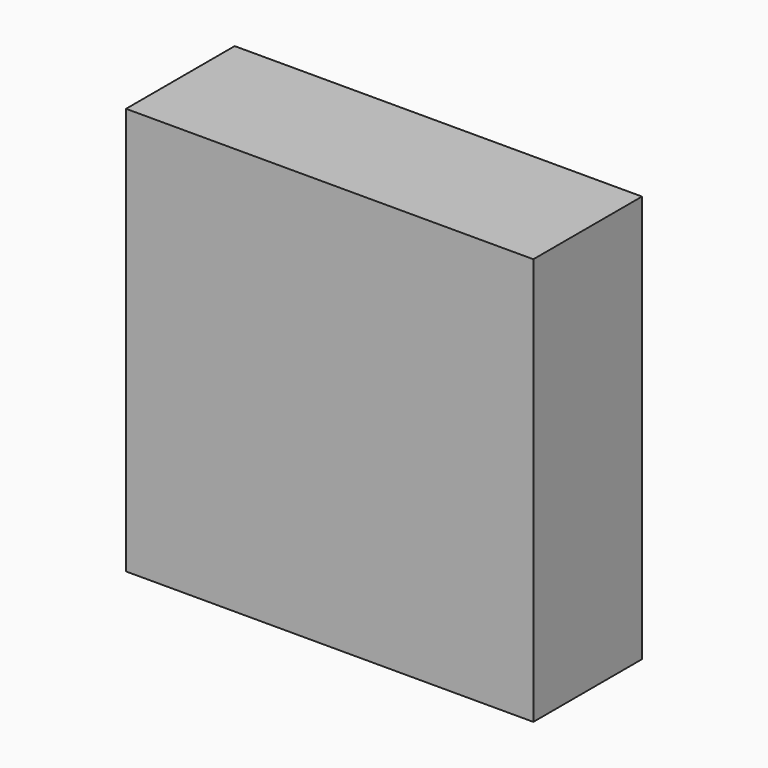
from build123d import *

# Parameters (mm, degrees)
F0_W     = 75
F0_H     = 75
F1_DEPTH = 25
F2_R     = 1
F3_DEPTH = 10
F4_R     = 1
F5_DEPTH = 15


with BuildPart() as f1:
    # F0 (on Front) → F1 (new body)
    with BuildSketch(Plane.XZ):
        Rectangle(F0_W, F0_H)
    extrude(amount=F1_DEPTH)

    # F2 (on face) → F3 (cut)
    with BuildSketch(Plane(origin=(0, 0, 0), x_dir=(-1, 0, 0), z_dir=(0, 1, 0))):
        Circle(F2_R)
    extrude(amount=-F3_DEPTH, mode=Mode.SUBTRACT)

    # F4 (on face) → F5 (join)
    with BuildSketch(Plane(origin=(0, 0, 0), x_dir=(-1, 0, 0), z_dir=(0, 1, 0))):
        with Locations((-12.5, 0)):
            Circle(F4_R)
    extrude(amount=F5_DEPTH)


solid = f1.part
